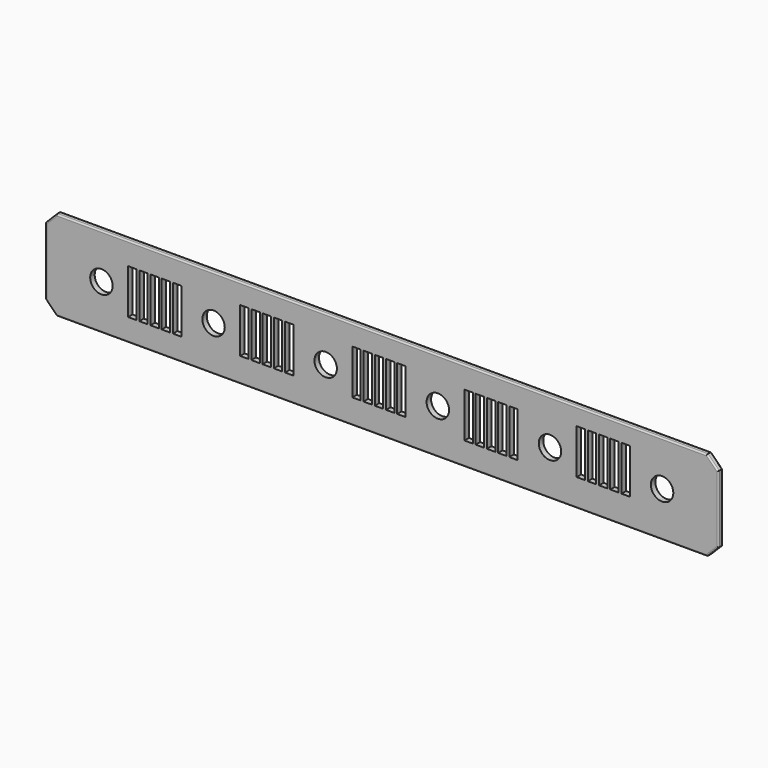
from build123d import *

# Parameters (mm, degrees)
F0_W     = 762
F0_H     = 101.6
F0_R     = 12.7
F1_DEPTH = 6.35
F2_W     = 9.525
F2_H     = 50.8
F3_DEPTH = 6.351
F4_SIZE  = 12.7
F5_R     = 1.6002


with BuildPart() as f1:
    # F0 (on Front) → F1 (new body)
    with BuildSketch(Plane.XZ):
        with Locations((381, 50.8)):
            Rectangle(F0_W, F0_H)
        with Locations((63.5, 50.8)):
            Circle(F0_R, mode=Mode.SUBTRACT)
        with Locations((190.5, 50.8)):
            Circle(F0_R, mode=Mode.SUBTRACT)
        with Locations((317.5, 50.8)):
            Circle(F0_R, mode=Mode.SUBTRACT)
        with Locations((444.5, 50.8)):
            Circle(F0_R, mode=Mode.SUBTRACT)
        with Locations((571.5, 50.8)):
            Circle(F0_R, mode=Mode.SUBTRACT)
        with Locations((698.5, 50.8)):
            Circle(F0_R, mode=Mode.SUBTRACT)
    extrude(amount=F1_DEPTH)

    # F2 (on face) → F3 (cut, through all)
    with BuildSketch(Plane.XZ.offset(6.35)):
        with Locations((98.4377, 50.8)):
            Rectangle(F2_W, F2_H)
        with Locations((111.1377, 50.8)):
            Rectangle(F2_W, F2_H)
        with Locations((123.8377, 50.8)):
            Rectangle(F2_W, F2_H)
        with Locations((136.5377, 50.8)):
            Rectangle(F2_W, F2_H)
        with Locations((149.2377, 50.8)):
            Rectangle(F2_W, F2_H)
        with Locations((225.4377, 53.3135051852)):
            Rectangle(F2_W, F2_H)
        with Locations((238.1377, 53.3135051852)):
            Rectangle(F2_W, F2_H)
        with Locations((250.8377, 53.3135051852)):
            Rectangle(F2_W, F2_H)
        with Locations((263.5377, 53.3135051852)):
            Rectangle(F2_W, F2_H)
        with Locations((276.2377, 53.3135051852)):
            Rectangle(F2_W, F2_H)
        with Locations((352.4377, 53.2665329998)):
            Rectangle(F2_W, F2_H)
        with Locations((365.1377, 53.2665329998)):
            Rectangle(F2_W, F2_H)
        with Locations((377.8377, 53.2665329998)):
            Rectangle(F2_W, F2_H)
        with Locations((390.5377, 53.2665329998)):
            Rectangle(F2_W, F2_H)
        with Locations((403.2377, 53.2665329998)):
            Rectangle(F2_W, F2_H)
        with Locations((479.4377, 51.6235756701)):
            Rectangle(F2_W, F2_H)
        with Locations((492.1377, 51.6235756701)):
            Rectangle(F2_W, F2_H)
        with Locations((504.8377, 51.6235756701)):
            Rectangle(F2_W, F2_H)
        with Locations((517.5377, 51.6235756701)):
            Rectangle(F2_W, F2_H)
        with Locations((530.2377, 51.6235756701)):
            Rectangle(F2_W, F2_H)
        with Locations((606.4377, 56.4514326876)):
            Rectangle(F2_W, F2_H)
        with Locations((619.1377, 56.4514326876)):
            Rectangle(F2_W, F2_H)
        with Locations((631.8377, 56.4514326876)):
            Rectangle(F2_W, F2_H)
        with Locations((644.5377, 56.4514326876)):
            Rectangle(F2_W, F2_H)
        with Locations((657.2377, 56.4514326876)):
            Rectangle(F2_W, F2_H)
    extrude(amount=-F3_DEPTH, mode=Mode.SUBTRACT)

    # F4
    f4_edges = [f1.edges().sort_by_distance(p)[0] for p in [
        (0, -3.175, 101.6),
        (0, -3.175, 0),
        (762, -3.175, 0),
        (762, -3.175, 101.6),
    ]]
    chamfer(f4_edges, length=F4_SIZE)

    # F5
    f5_edges = [f1.edges().sort_by_distance(p)[0] for p in [
        (381, -6.35, 101.6),
        (381, 0, 101.6),
        (6.35, -6.35, 95.25),
        (6.35, 0, 95.25),
        (0, -6.35, 50.8),
        (0, 0, 50.8),
        (6.35, -6.35, 6.35),
        (6.35, 0, 6.35),
        (381, -6.35, 0),
        (381, 0, 0),
        (755.65, -6.35, 95.25),
        (755.65, 0, 95.25),
        (762, 0, 50.8),
        (762, -6.35, 50.8),
        (755.65, -6.35, 6.35),
    ]]
    fillet(f5_edges, radius=F5_R)


solid = f1.part
